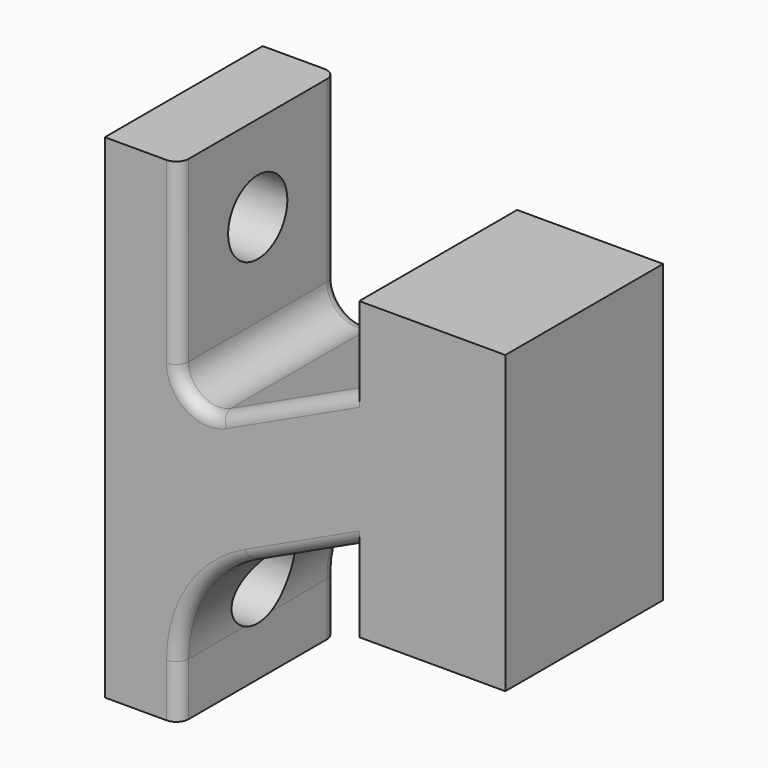
from build123d import *

# Parameters (mm, degrees)
F1_DEPTH = 8
F2_R     = 1.5
F3_DEPTH = 3.8920101006
F4_R     = 0.5


with BuildPart() as f1:
    # F0 (on Front) → F1 (new body)
    with BuildSketch(Plane.XZ):
        with BuildLine():
            Line((3, 14.471053486), (0, 14.471053486))
            Line((0, 14.471053486), (0, -5.528946514))
            Line((0, -5.528946514), (3, -5.528946514))
            Line((3, -5.528946514), (3, -3.3778412531))
            ThreePointArc((3, -3.3778412531), (3.7830427709, -0.6913432113), (5.8869086913, 1.1536976821))
            Line((5.8869086913, 1.1536976821), (10.3150881731, 3.2185916862))
            Line((10.3150881731, 3.2185916862), (10.3150881731, -0.0229635164))
            Line((10.3150881731, -0.0229635164), (16.2366852164, -0.0229635164))
            Line((16.2366852164, -0.0229635164), (16.2366852164, 11.9770364836))
            Line((16.2366852164, 11.9770364836), (10.3150881731, 11.9770364836))
            Line((10.3150881731, 11.9770364836), (10.3150881731, 8.735481281))
            Line((10.3150881731, 8.735481281), (4.7242360053, 6.1284240995))
            ThreePointArc((4.7242360053, 6.1284240995), (3.5608002487, 6.2046797078), (3, 7.2268835811))
            Line((3, 7.2268835811), (3, 14.471053486))
        make_face()
    extrude(amount=F1_DEPTH)

    # F2 (on Right) → F3 (cut, through all)
    with BuildSketch(Plane.YZ):
        with Locations((-4, -2.028946514)):
            Circle(F2_R)
        with Locations((-4, 10.971053486)):
            Circle(F2_R)
    extrude(amount=F3_DEPTH, mode=Mode.SUBTRACT)

    # F4
    f4_edges = [f1.edges().sort_by_distance(p)[0] for p in [
        (7.519662, 0, 7.431953),
        (8.100998, 0, 2.186145),
        (7.519662, -8, 7.431953),
        (8.100998, -8, 2.186145),
    ]]
    fillet(f4_edges, radius=F4_R)


solid = f1.part
